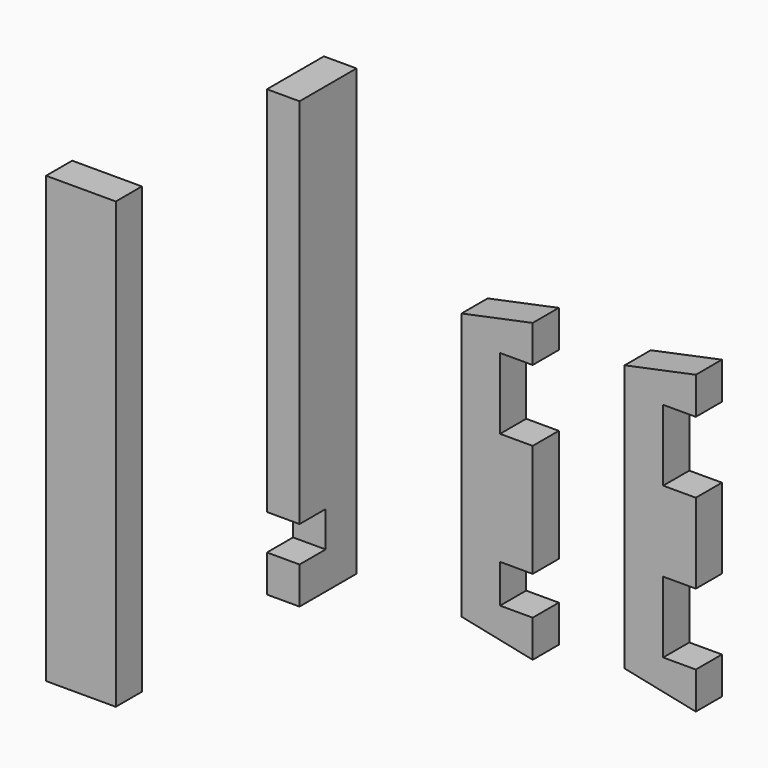
from build123d import *

# Parameters (mm, degrees)
F0_W      = 96
F0_H      = 44
F1_DEPTH  = 400
F2_W      = 44
F2_H      = 96
F2_H_2    = 52
F3_DEPTH  = 44
F4_W      = 44
F4_H      = 96
F5_DEPTH  = 600
F6_W      = 44
F6_H      = 48
F7_DEPTH  = 44
F8_W      = 94
F8_H      = 44
F9_DEPTH  = 600
F11_DEPTH = 44


with BuildPart() as f1:
    # F0 (on Top) → F1 (new body)
    with BuildSketch(Plane.XY):
        with Locations((-48, 22)):
            Rectangle(F0_W, F0_H)
    extrude(amount=F1_DEPTH)

    # F2 (on face) → F3 (cut)
    with BuildSketch(Plane.XZ):
        with Locations((-22, 302)):
            Rectangle(F2_W, F2_H)
        with Locations((-22, 76)):
            Rectangle(F2_W, F2_H_2)
        Polygon((-96, 380), (0, 400), (-96, 400), align=None)
        Polygon((0, 0), (-96, 20), (-96, 0), align=None)
    extrude(amount=-F3_DEPTH, mode=Mode.SUBTRACT)


with BuildPart() as f5:
    # F4 (on Top) → F5 (new body)
    with BuildSketch(Plane.XY):
        with Locations((-289.5077912807, -10.6397461593)):
            Rectangle(F4_W, F4_H)
    extrude(amount=F5_DEPTH)

    # F6 (on face) → F7 (cut)
    with BuildSketch(Plane(origin=(-311.5077912807, 0, 0), x_dir=(0, -1, 0), z_dir=(-1, 0, 0))):
        with Locations((36.6397461593, 74)):
            Rectangle(F6_W, F6_H)
    extrude(amount=-F7_DEPTH, mode=Mode.SUBTRACT)


with BuildPart() as f9:
    # F8 (on Top) → F9 (new body)
    with BuildSketch(Plane.XY):
        with Locations((-322.8861002922, -336.0055832863)):
            Rectangle(F8_W, F8_H)
    extrude(amount=F9_DEPTH)


with BuildPart() as f10_1:
    # F10: copy of F1
    add(f1.part.moved(Location((220, 0, 10))))

    # F11 (cut): a face of the model
    f11_faces = [f10_1.faces().sort_by_distance(p)[0] for p in [
        (198, 22, 112),
    ]]
    extrude(f11_faces, amount=-F11_DEPTH, mode=Mode.SUBTRACT)


solid = Compound([f1.part, f5.part, f9.part, f10_1.part])
